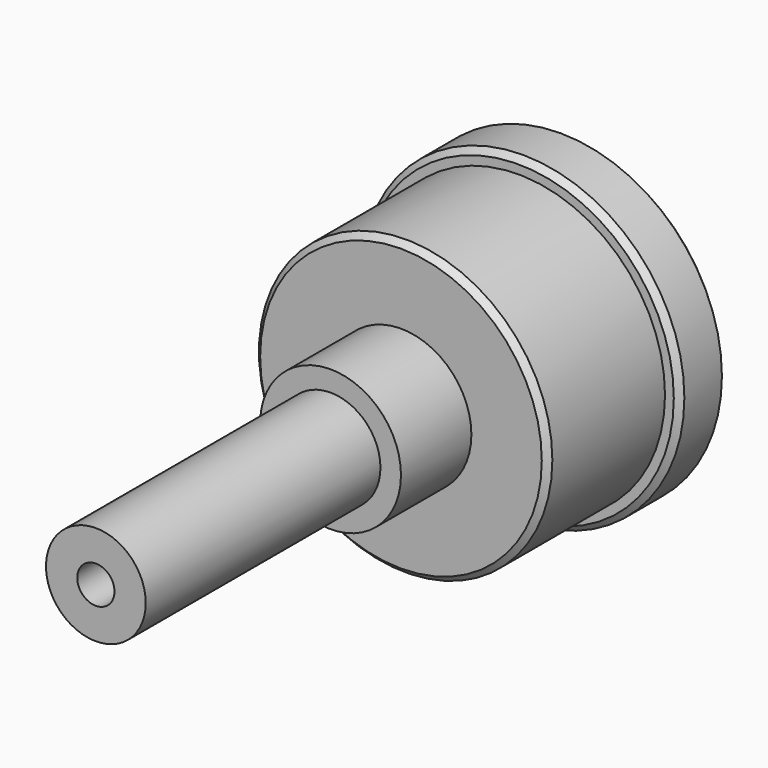
from build123d import *

# Parameters (mm, degrees)
F0_R      = 27.5
F1_DEPTH  = 10
F2_R      = 25
F3_DEPTH  = 25
F4_R      = 12
F5_DEPTH  = 15
F6_SIZE   = 1
F9_R      = 12.5
F10_DEPTH = 10
F11_R     = 8.5
F12_DEPTH = 50
F13_R     = 3.175
F14_DEPTH = 20.6


with BuildPart() as f1:
    # F0 (on Front) → F1 (new body)
    with BuildSketch(Plane.XZ):
        Circle(F0_R)
    extrude(amount=F1_DEPTH)

    # F2 (on face) → F3 (join)
    with BuildSketch(Plane.XZ.offset(10)):
        Circle(F2_R)
    extrude(amount=F3_DEPTH)

    # F4 (on face) → F5 (join)
    with BuildSketch(Plane.XZ.offset(35)):
        Circle(F4_R)
    extrude(amount=F5_DEPTH)

    # F6
    f6_edges = [f1.edges().sort_by_distance(p)[0] for p in [
        (-27.5, -10, 0),
        (-27.5, 0, 0),
        (-25, -35, 0),
    ]]
    chamfer(f6_edges, length=F6_SIZE)

    # F7 (on Top) → F8 (revolve, cut)
    with BuildSketch(Plane.XY):
        Polygon((20.75, 0), (0, 0), (0, -20), (15, -20), align=None)
    revolve(axis=Axis((0, -10, 0), (0, -1, 0)), mode=Mode.SUBTRACT)

    # F9 (on face) → F10 (cut)
    with BuildSketch(Plane(origin=(0, -20, 0), x_dir=(-1, 0, 0), z_dir=(0, 1, 0))):
        Circle(F9_R)
    extrude(amount=-F10_DEPTH, mode=Mode.SUBTRACT)

    # F11 (on face) → F12 (join)
    with BuildSketch(Plane.XZ.offset(50)):
        Circle(F11_R)
    extrude(amount=F12_DEPTH)

    # F13 (on face) → F14 (cut)
    with BuildSketch(Plane.XZ.offset(100)):
        Circle(F13_R)
    extrude(amount=-F14_DEPTH, mode=Mode.SUBTRACT)


solid = f1.part
